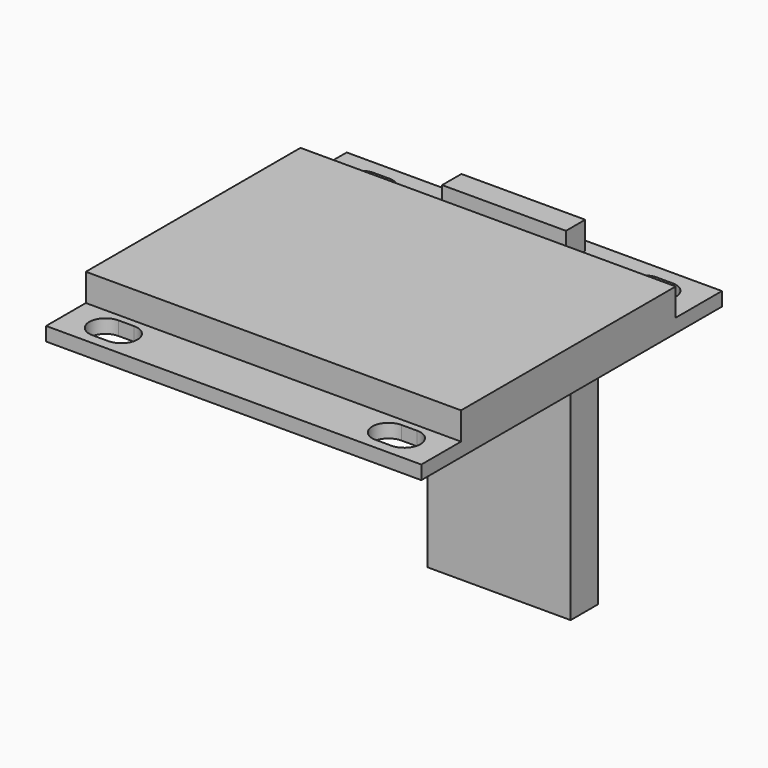
from build123d import *

# Parameters (mm, degrees)
SKETCH007_W      = 27.27
SKETCH007_H      = 19.5
SKETCH007_W_2    = 9
SKETCH007_H_2    = 1.75
EXTRUDE006_DEPTH = 2
SKETCH006_W      = 27.27
SKETCH006_H      = 27.31
SKETCH006_R      = 0.25
EXTRUDE007_DEPTH = 1
SKETCH008_W      = 10.4
SKETCH008_H      = 2.5
EXTRUDE008_DEPTH = 8.5
SKETCH009_W      = 10.4
SKETCH009_H      = 2.5
EXTRUDE009_DEPTH = 21.5


with BuildPart() as obj1:
    # Sketch007 → Extrude006 (new body)
    with BuildSketch(Plane.XY):
        with Locations((13.635, 13.36)):
            Rectangle(SKETCH007_W, SKETCH007_H)
        with Locations((13.635, 25.435)):
            Rectangle(SKETCH007_W_2, SKETCH007_H_2)
    extrude(amount=EXTRUDE006_DEPTH)


with BuildPart() as obj1_1:
    # Extrude006 placement: moved
    add(obj1.part.moved(Location((0, 0, 1))))


with BuildPart() as extrude_display_base:
    # Sketch006 → Extrude007 (new body)
    with BuildSketch(Plane.XY):
        with Locations((13.635, 13.655)):
            Rectangle(SKETCH006_W, SKETCH006_H)
        with Locations((8.514, 25.135)):
            Circle(SKETCH006_R, mode=Mode.SUBTRACT)
        with Locations((11.928, 25.135)):
            Circle(SKETCH006_R, mode=Mode.SUBTRACT)
        with Locations((15.342, 25.135)):
            Circle(SKETCH006_R, mode=Mode.SUBTRACT)
        with Locations((18.756, 25.135)):
            Circle(SKETCH006_R, mode=Mode.SUBTRACT)
        with BuildLine():
            ThreePointArc((2.775, 26.31), (1.6, 25.135), (2.775, 23.96))
            Line((2.775, 23.96), (3.925, 23.96))
            ThreePointArc((3.925, 23.96), (5.1, 25.135), (3.925, 26.31))
            Line((3.925, 26.31), (2.775, 26.31))
        make_face(mode=Mode.SUBTRACT)
        with BuildLine():
            ThreePointArc((23.345, 26.31), (22.17, 25.135), (23.345, 23.96))
            Line((23.345, 23.96), (24.495, 23.96))
            ThreePointArc((24.495, 23.96), (25.67, 25.135), (24.495, 26.31))
            Line((24.495, 26.31), (23.345, 26.31))
        make_face(mode=Mode.SUBTRACT)
        with BuildLine():
            ThreePointArc((2.775, 3.1), (1.6, 1.925), (2.775, 0.75))
            Line((2.775, 0.75), (3.925, 0.75))
            ThreePointArc((3.925, 0.75), (5.1, 1.925), (3.925, 3.1))
            Line((3.925, 3.1), (2.775, 3.1))
        make_face(mode=Mode.SUBTRACT)
        with BuildLine():
            ThreePointArc((23.345, 3.1), (22.17, 1.925), (23.345, 0.75))
            Line((23.345, 0.75), (24.495, 0.75))
            ThreePointArc((24.495, 0.75), (25.67, 1.925), (24.495, 3.1))
            Line((24.495, 3.1), (23.345, 3.1))
        make_face(mode=Mode.SUBTRACT)
    extrude(amount=EXTRUDE007_DEPTH)


with BuildPart() as fusion_display:
    # Sketch008 → Extrude008 (new body)
    with BuildSketch(Plane.XY):
        with Locations((13.635, 25.36)):
            Rectangle(SKETCH008_W, SKETCH008_H)
    extrude(amount=-EXTRUDE008_DEPTH)

    # Fusion002: union obj1, Extrude_Display_base
    add(obj1_1.part)
    add(extrude_display_base.part)


with BuildPart() as obj2:
    # Sketch009 → Extrude009 (new body)
    with BuildSketch(Plane.XY):
        with Locations((13.635, 25.36)):
            Rectangle(SKETCH009_W, SKETCH009_H)
    extrude(amount=-EXTRUDE009_DEPTH)

    # Fusion003: union Fusion_Display
    add(fusion_display.part)


with BuildPart() as obj2_1:
    # Fusion003 placement: moved
    add(obj2.part.moved(Location((-50, 0, 0))))


solid = obj2_1.part
